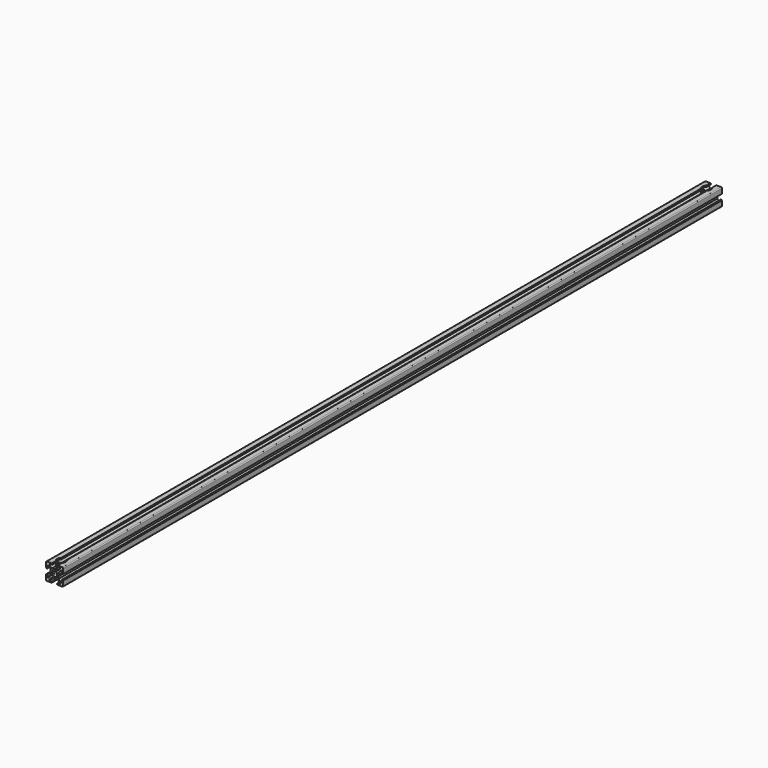
from build123d import *

# Parameters (mm, degrees)
PAD_DEPTH          = 960
POCKET_DEPTH       = 960
POLARPATTERN_COUNT = 4
POCKET001_DEPTH    = 960
SKETCH003_R        = 3.1
POCKET002_DEPTH    = 20
SKETCH004_R        = 5
POCKET003_DEPTH    = 5


with BuildPart() as part:
    # Sketch → Pad (new body)
    with BuildSketch(Plane(origin=(0, 0, 0), x_dir=(-1, 0, 0), z_dir=(0, 1, 0))):
        with BuildLine():
            Line((-9, 10), (9, 10))
            ThreePointArc((10, 9), (9.707107, 9.707107), (9, 10))
            Line((10, 9), (10, -9))
            ThreePointArc((9, -10), (9.707107, -9.707107), (10, -9))
            Line((9, -10), (-9, -10))
            ThreePointArc((-10, -9), (-9.707107, -9.707107), (-9, -10))
            Line((-10, -9), (-10, 9))
            ThreePointArc((-9, 10), (-9.707107, 9.707107), (-10, 9))
        make_face()
    extrude(amount=PAD_DEPTH)

    # Sketch001 (on Face10 of Pad) → Pocket (cut)
    with BuildSketch(Plane(origin=(0, 960, 0), x_dir=(1, 0, 0), z_dir=(0, 1, 0))):
        Polygon((-3.4, 10), (-3.4, 9.6), (-3, 9.6), (-3, 8.5), (-6, 8.5), (-6, 7), (-3.35, 4.7), (-0.65, 4.7), (0, 4.3), (0.65, 4.7), (3.35, 4.7), (6, 7), (6, 8.5), (3, 8.5), (3, 9.6), (3.4, 9.6), (3.4, 10), align=None)
    pocket = extrude(amount=-POCKET_DEPTH, mode=Mode.SUBTRACT)

    # PolarPattern: Pocket ×4 about axis
    polarpattern_axis = Axis((0, 960, 0), (0, 1, 0))
    for i in range(1, POLARPATTERN_COUNT):
        add(pocket.rotate(polarpattern_axis, i * 360 / POLARPATTERN_COUNT), mode=Mode.SUBTRACT)

    # Sketch002 (on Face4 of PolarPattern) → Pocket001 (cut)
    with BuildSketch(Plane(origin=(0, 960, 0), x_dir=(1, 0, 0), z_dir=(0, 1, 0))):
        with BuildLine():
            ThreePointArc((1.340499, 2.401159), (0, 2.75), (-1.340499, 2.401159))
            Line((-1.944544, 3.005204), (-1.340499, 2.401159))
            Line((-3.005204, 1.944544), (-1.944544, 3.005204))
            Line((-2.401159, 1.340499), (-3.005204, 1.944544))
            ThreePointArc((-2.401159, 1.340499), (-2.75, 0), (-2.401159, -1.340499))
            Line((-3.005204, -1.944544), (-2.401159, -1.340499))
            Line((-1.944544, -3.005204), (-3.005204, -1.944544))
            Line((-1.340499, -2.401159), (-1.944544, -3.005204))
            ThreePointArc((-1.340499, -2.401159), (0, -2.75), (1.340499, -2.401159))
            Line((1.944544, -3.005204), (1.340499, -2.401159))
            Line((3.005204, -1.944544), (1.944544, -3.005204))
            Line((2.401159, -1.340499), (3.005204, -1.944544))
            ThreePointArc((2.401159, -1.340499), (2.75, 0), (2.401159, 1.340499))
            Line((2.401159, 1.340499), (3.005204, 1.944544))
            Line((3.005204, 1.944544), (1.944544, 3.005204))
            Line((1.944544, 3.005204), (1.340499, 2.401159))
        make_face()
    extrude(amount=-POCKET001_DEPTH, mode=Mode.SUBTRACT)

    # Sketch003 (on Face76 of Pocket001) → Pocket002 (cut)
    with BuildSketch(Plane(origin=(0, 0, 10), x_dir=(-1, 0, 0), z_dir=(0, 0, 1))):
        with Locations((0, -10)):
            Circle(SKETCH003_R)
        with Locations((0, -950)):
            Circle(SKETCH003_R)
    extrude(amount=-POCKET002_DEPTH, mode=Mode.SUBTRACT)

    # Sketch004 (on Face42 of Pocket002) → Pocket003 (cut)
    with BuildSketch(Plane(origin=(0, 0, 10), x_dir=(-1, 0, 0), z_dir=(0, 0, 1))):
        with Locations((0, -10)):
            Circle(SKETCH004_R)
        with Locations((0, -950)):
            Circle(SKETCH004_R)
    extrude(amount=-POCKET003_DEPTH, mode=Mode.SUBTRACT)


solid = part.part
